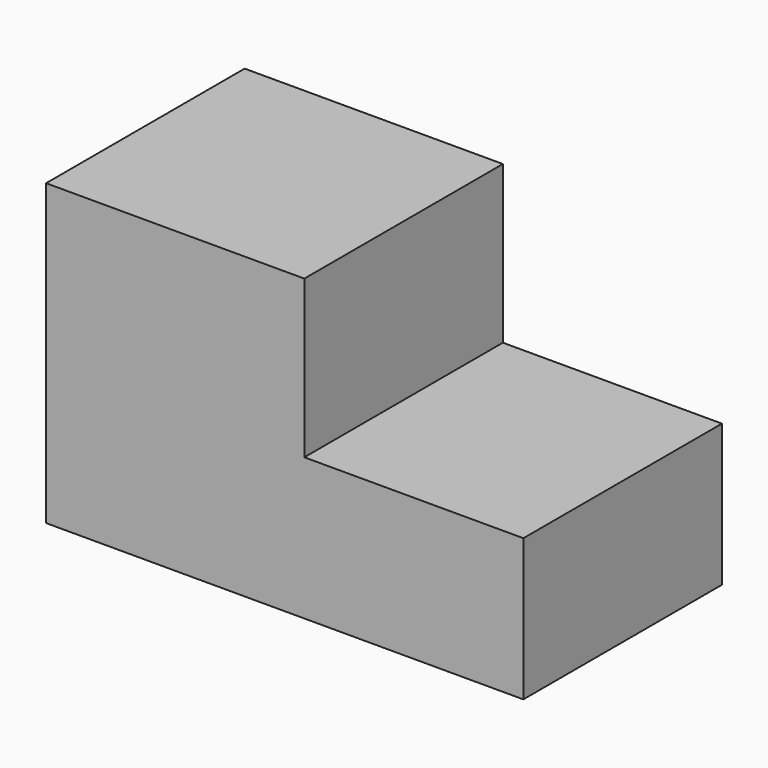
from build123d import *

# Parameters (mm, degrees)
F1_DEPTH = 25.4
F2_DEPTH = 7.62
F3_DEPTH = 7.62


with BuildPart() as f1:
    # F0 (on Front) → F1 (new body)
    with BuildSketch(Plane.XZ):
        Polygon((-9.9045233801, -20.2733278275), (-44.2608483136, -20.2733278275), (-44.2608483136, -52.4630360305), (19.2391516864, -52.4630360305), (19.2391516864, -33.582534641), (-9.9045233801, -33.582534641), align=None)
    extrude(amount=-F1_DEPTH)

    # F2 (add): a face of the model
    f2_faces = [f1.faces().sort_by_distance(p)[0] for p in [
        (-27.0826858468, 12.7, -20.2733278275),
    ]]
    extrude(f2_faces, amount=F2_DEPTH)

    # F3 (add): a face of the model
    f3_faces = [f1.faces().sort_by_distance(p)[0] for p in [
        (-17.9738795934, 0, -35.5603880692),
    ]]
    extrude(f3_faces, amount=F3_DEPTH)


solid = f1.part
